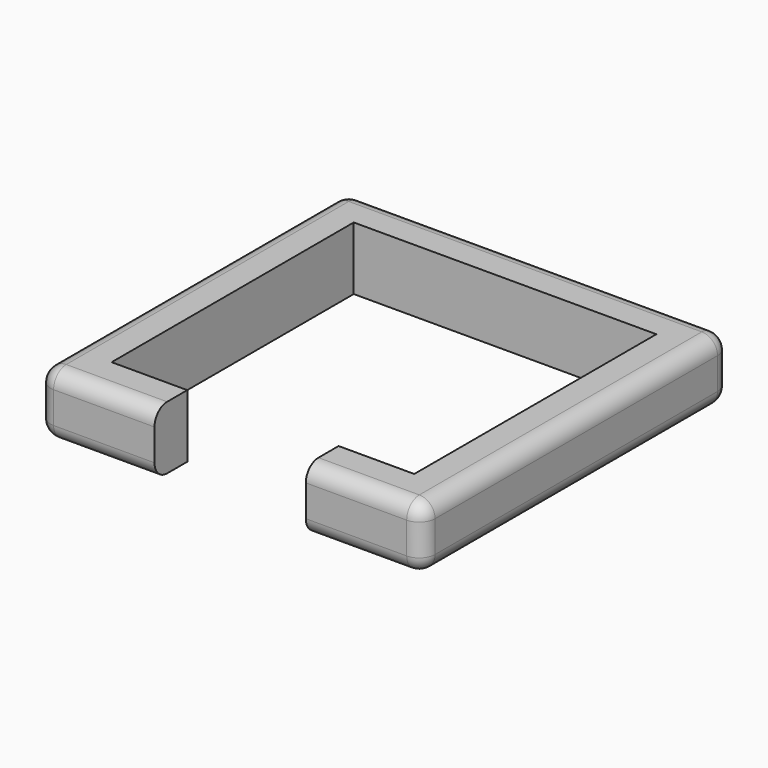
from build123d import *

# Parameters (mm, degrees)
F1_DEPTH = 20
F2_R     = 5


with BuildPart() as f1:
    # F0 (on Top) → F1 (new body)
    with BuildSketch(Plane.XY):
        Polygon((61, -61), (61, 61), (-61, 61), (-61, -61), (-24, -61), (-24, -48), (-48, -48), (-48, 48), (48, 48), (48, -48), (24, -48), (24, -61), align=None)
    extrude(amount=F1_DEPTH)

    # F2
    f2_edges = [f1.edges().sort_by_distance(p)[0] for p in [
        (-61, 0, 20),
        (-42.5, -61, 20),
        (42.5, -61, 20),
        (61, 0, 20),
        (0, 61, 20),
        (42.5, -61, 0),
        (-42.5, -61, 0),
        (-61, 0, 0),
        (0, 61, 0),
        (61, 0, 0),
        (61, -61, 10),
        (-61, -61, 10),
        (61, 61, 10),
        (-61, 61, 10),
    ]]
    fillet(f2_edges, radius=F2_R)


solid = f1.part
